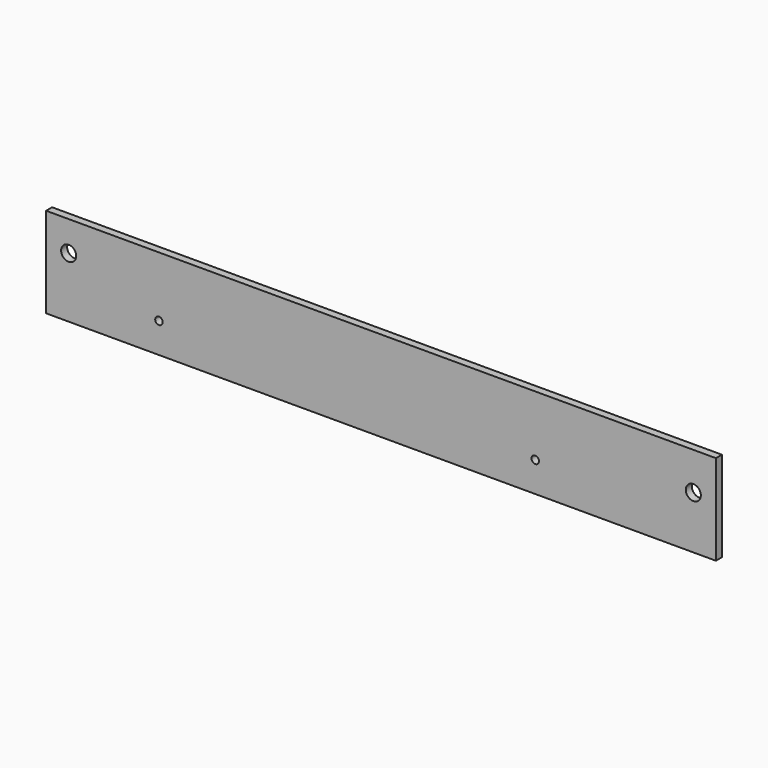
from build123d import *

# Parameters (mm, degrees)
F0_W     = 282.575
F0_H     = 38.1
F1_DEPTH = 3.175
F2_R     = 3.175
F2_R_2   = 1.5875
F3_DEPTH = 3.176


with BuildPart() as f1:
    # F0 (on Front) → F1 (new body)
    with BuildSketch(Plane.XZ):
        with Locations((141.2875, -19.05)):
            Rectangle(F0_W, F0_H)
    extrude(amount=-F1_DEPTH)

    # F2 (on Front) → F3 (cut, through all)
    with BuildSketch(Plane.XZ):
        with Locations((9.525, -12.7)):
            Circle(F2_R)
        with Locations((273.05, -15.875)):
            Circle(F2_R)
        with Locations((47.625, -25.4)):
            Circle(F2_R_2)
        with Locations((206.375, -25.4)):
            Circle(F2_R_2)
    extrude(amount=-F3_DEPTH, mode=Mode.SUBTRACT)


solid = f1.part
